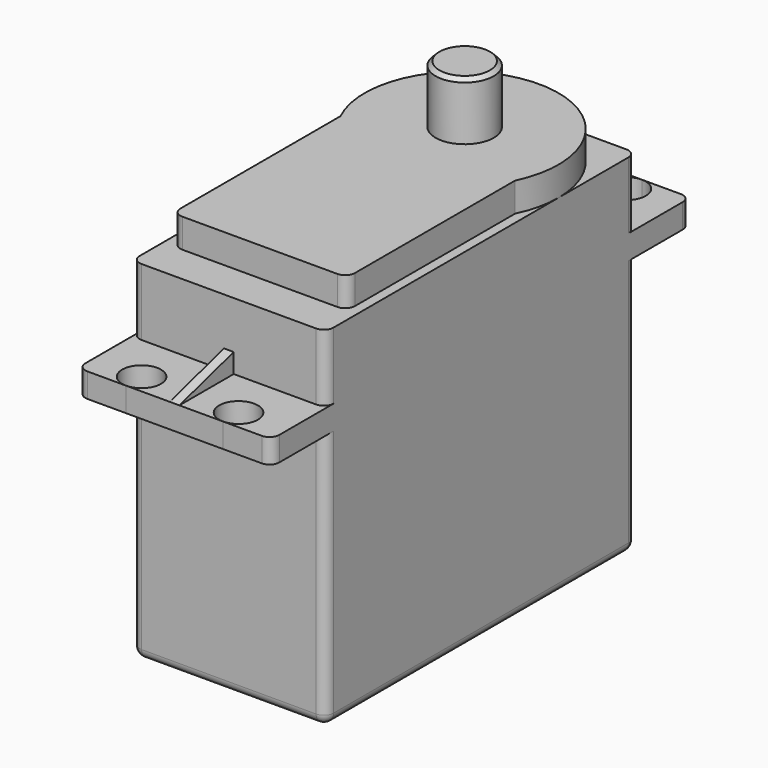
from build123d import *

# Parameters (mm, degrees)
SKETCH_W        = 54
SKETCH_H        = 36
PAD_DEPTH       = 20
SKETCH001_W     = 7
SKETCH001_H     = 26.6
SKETCH001_H_2   = 6.9
POCKET_DEPTH    = 20.001
PAD001_DEPTH    = 3
SKETCH003_R     = 3
PAD002_DEPTH    = 45
SKETCH004_R     = 2
POCKET001_DEPTH = 2.5
PAD003_START    = -9.5
PAD003_DEPTH    = 1
CHAMFER_SIZE    = 0.4
FILLET_R        = 1
FILLET001_R     = 1
FILLET002_R     = 1


with BuildPart() as part:
    # Sketch → Pad (new body)
    with BuildSketch(Plane.YZ):
        with Locations((27, 18)):
            Rectangle(SKETCH_W, SKETCH_H)
    extrude(amount=PAD_DEPTH)

    # Sketch001 (on DatumPlane) → Pocket (cut, through all)
    with BuildSketch(Plane.YZ.offset(20)):
        with Locations((3.5, 13.3)):
            Rectangle(SKETCH001_W, SKETCH001_H)
        with Locations((50.5, 13.3)):
            Rectangle(SKETCH001_W, SKETCH001_H)
        with Locations((3.5, 32.55)):
            Rectangle(SKETCH001_W, SKETCH001_H_2)
        with Locations((50.5, 32.55)):
            Rectangle(SKETCH001_W, SKETCH001_H_2)
    extrude(amount=-POCKET_DEPTH, mode=Mode.SUBTRACT)

    # Sketch002 (on DatumPlane) → Pad001 (join)
    with BuildSketch(Plane(origin=(0, 0, 36), x_dir=(0, -1, 0), z_dir=(0, 0, 1))):
        with BuildLine():
            Line((-11, 19), (-32.641101, 19))
            ThreePointArc((-32.641101, 19), (-47, 10), (-32.641101, 1))
            Line((-32.641101, 1), (-11, 1))
            Line((-11, 1), (-11, 19))
        make_face()
    extrude(amount=PAD001_DEPTH)

    # Sketch003 → Pad002 (join)
    with BuildSketch(Plane.XY):
        with Locations((10, 37.4)):
            Circle(SKETCH003_R)
    extrude(amount=PAD002_DEPTH)

    # Sketch004 (on Face7 of Pad002) → Pocket001 (cut)
    with BuildSketch(Plane(origin=(0, 0, 29.1), x_dir=(0, -1, 0), z_dir=(0, 0, 1))):
        with Locations((-52, 15)):
            Circle(SKETCH004_R)
        with Locations((-52, 5)):
            Circle(SKETCH004_R)
        with Locations((-2, 15)):
            Circle(SKETCH004_R)
        with Locations((-2, 5)):
            Circle(SKETCH004_R)
    extrude(amount=-POCKET001_DEPTH, mode=Mode.SUBTRACT)

    # Sketch005 (on DatumPlane) → Pad003 (join)
    with BuildSketch(Plane.YZ.offset(20).offset(PAD003_START)):
        Polygon((0, 29.1), (7, 31.1), (7, 29.1), align=None)
        Polygon((54, 29.1), (47, 29.1), (47, 31.1), align=None)
    extrude(amount=-PAD003_DEPTH)

    # Chamfer
    chamfer_edges = [part.edges().sort_by_distance(p)[0] for p in [
        (7, 37.4, 45),
    ]]
    chamfer(chamfer_edges, length=CHAMFER_SIZE)

    # Fillet
    fillet_edges = [part.edges().sort_by_distance(p)[0] for p in [
        (0, 47, 13.3),
        (20, 47, 13.3),
        (0, 27, 0),
        (10, 47, 0),
        (20, 27, 0),
        (10, 7, 0),
        (0, 7, 13.3),
        (20, 7, 13.3),
        (20, 7, 32.55),
        (0, 7, 32.55),
        (20, 47, 32.55),
        (0, 47, 32.55),
    ]]
    fillet(fillet_edges, radius=FILLET_R)

    # Fillet001
    fillet001_edges = [part.edges().sort_by_distance(p)[0] for p in [
        (0, 54, 27.85),
        (20, 54, 27.85),
        (0, 0, 27.85),
        (20, 0, 27.85),
    ]]
    fillet(fillet001_edges, radius=FILLET001_R)

    # Fillet002
    fillet002_edges = [part.edges().sort_by_distance(p)[0] for p in [
        (1, 11, 37.5),
        (19, 11, 37.5),
    ]]
    fillet(fillet002_edges, radius=FILLET002_R)


solid = part.part
